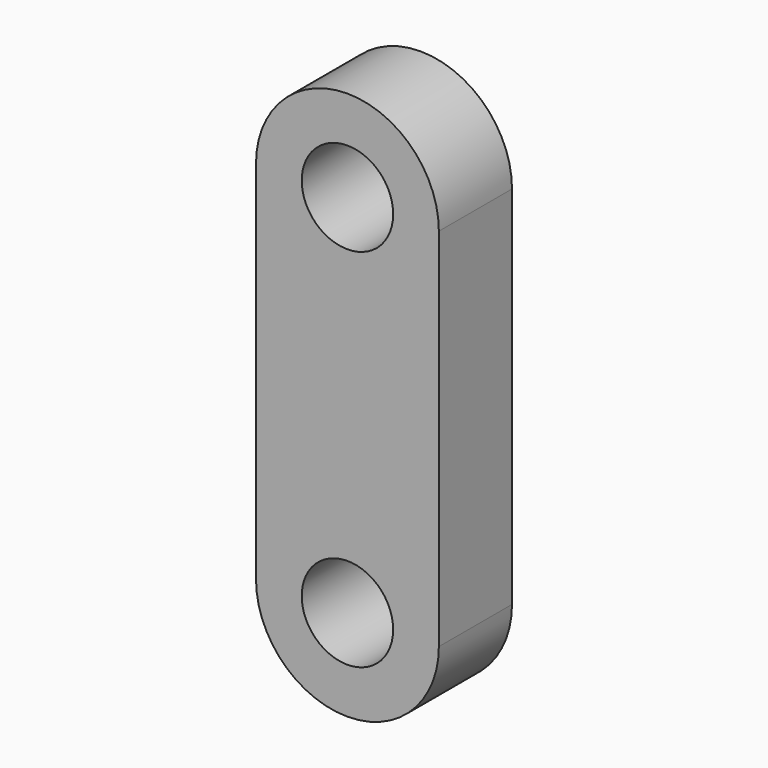
from build123d import *

# Parameters (mm, degrees)
F1_DEPTH = 25.4
F2_R     = 12.7
F3_DEPTH = 50.8


with BuildPart() as f1:
    # F0 (on Front) → F1 (new body)
    with BuildSketch(Plane.XZ):
        with BuildLine():
            ThreePointArc((-25.4, 50.8), (0, 25.4), (25.4, 50.8))
            Line((25.4, 50.8), (-25.4, 50.8))
        make_face()
        with BuildLine():
            Line((-25.4, 50.8), (25.4, 50.8))
            ThreePointArc((25.4, 50.8), (0, 76.2), (-25.4, 50.8))
        make_face()
        with BuildLine():
            Line((-25.4, 0), (25.4, 0))
            Line((25.4, 0), (25.4, 50.8))
            ThreePointArc((25.4, 50.8), (0, 25.4), (-25.4, 50.8))
            Line((-25.4, 50.8), (-25.4, 0))
        make_face()
    extrude(amount=F1_DEPTH)

    # F2 (on face) → F3 (cut)
    with BuildSketch(Plane.XZ.offset(25.4)):
        with Locations((0, 50.8)):
            Circle(F2_R)
    extrude(amount=-F3_DEPTH, mode=Mode.SUBTRACT)

    # F4: F1 across face


with BuildPart() as f1_1:
    add(f1.part)
    add(f1.part.mirror(Plane(origin=(0, -12.7, 0), x_dir=(1, 0, 0), z_dir=(0, 0, -1))))


solid = f1_1.part
